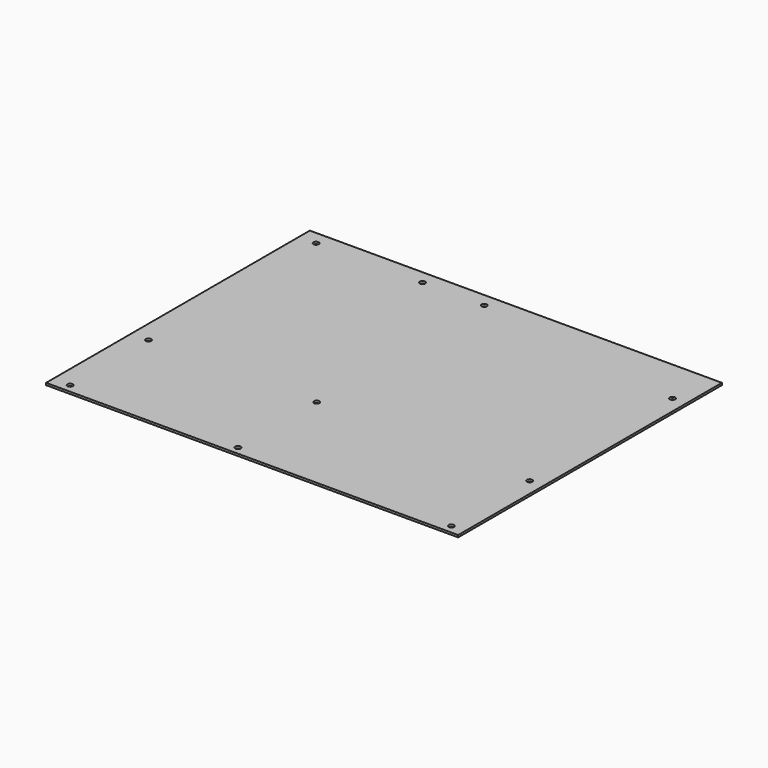
from build123d import *

# Parameters (mm, degrees)
F0_W     = 304.8
F0_H     = 243.84
F0_R     = 1.9812
F1_DEPTH = 1.57


with BuildPart() as f1:
    # F0 (on Top) → F1 (new body)
    with BuildSketch(Plane.XY):
        Rectangle(F0_W, F0_H)
        with Locations((-139.702536, -115.57)):
            Circle(F0_R, mode=Mode.SUBTRACT)
        with Locations((-15.242536, -115.959483)):
            Circle(F0_R, mode=Mode.SUBTRACT)
        with Locations((-139.702536, -43.18)):
            Circle(F0_R, mode=Mode.SUBTRACT)
        with Locations((-15.242536, -43.180149)):
            Circle(F0_R, mode=Mode.SUBTRACT)
        with Locations((142.237464, -115.57)):
            Circle(F0_R, mode=Mode.SUBTRACT)
        with Locations((142.237464, -43.18)):
            Circle(F0_R, mode=Mode.SUBTRACT)
        with Locations((-139.7, 111.76)):
            Circle(F0_R, mode=Mode.SUBTRACT)
        with Locations((-60.96, 111.76)):
            Circle(F0_R, mode=Mode.SUBTRACT)
        with Locations((-15.242536, 111.76)):
            Circle(F0_R, mode=Mode.SUBTRACT)
        with Locations((142.237464, 88.9)):
            Circle(F0_R, mode=Mode.SUBTRACT)
    extrude(amount=-F1_DEPTH)


solid = f1.part
